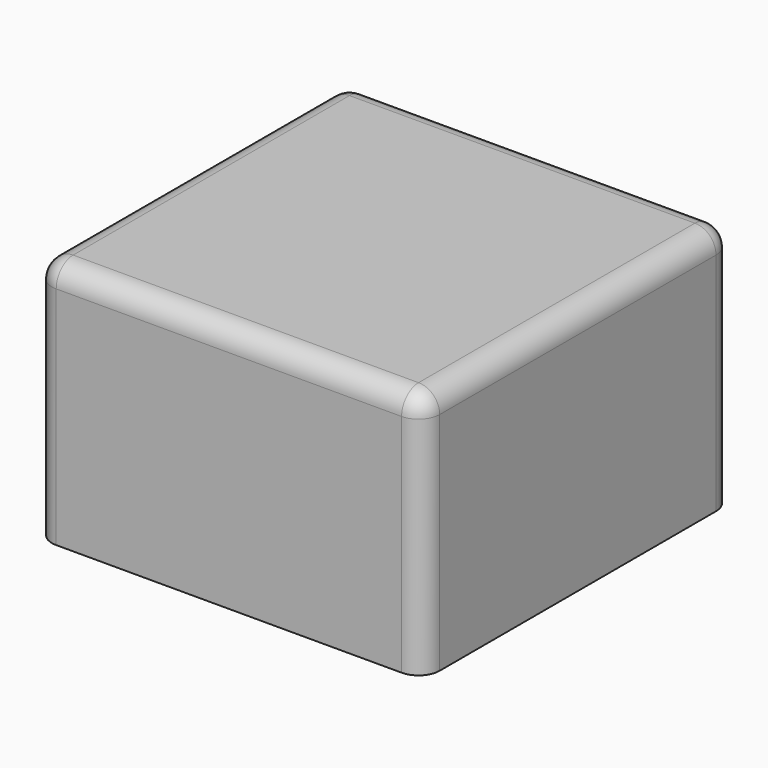
from build123d import *

# Parameters (mm, degrees)
F0_W     = 55
F0_H     = 55
F1_DEPTH = 35
F2_W     = 45
F2_H     = 45
F3_DEPTH = 30
F4_R     = 3


with BuildPart() as f1:
    # F0 (on Top) → F1 (new body)
    with BuildSketch(Plane.XY):
        with Locations((-35.2636, 31.343543)):
            Rectangle(F0_W, F0_H)
    extrude(amount=F1_DEPTH)

    # F2 (on face) → F3 (cut)
    with BuildSketch(Plane(origin=(0, 0, 0), x_dir=(1, 0, 0), z_dir=(0, 0, -1))):
        with Locations((-35.2636, -31.343543)):
            Rectangle(F2_W, F2_H)
    extrude(amount=-F3_DEPTH, mode=Mode.SUBTRACT)

    # F4
    f4_edges = [f1.edges().sort_by_distance(p)[0] for p in [
        (-62.7636, 31.343543, 35),
        (-35.2636, 3.843543, 35),
        (-62.7636, 3.843543, 17.5),
        (-7.7636, 31.343543, 35),
        (-35.2636, 58.843543, 35),
        (-62.7636, 58.843543, 17.5),
        (-7.7636, 58.843543, 17.5),
        (-7.7636, 3.843543, 17.5),
    ]]
    fillet(f4_edges, radius=F4_R)


solid = f1.part
